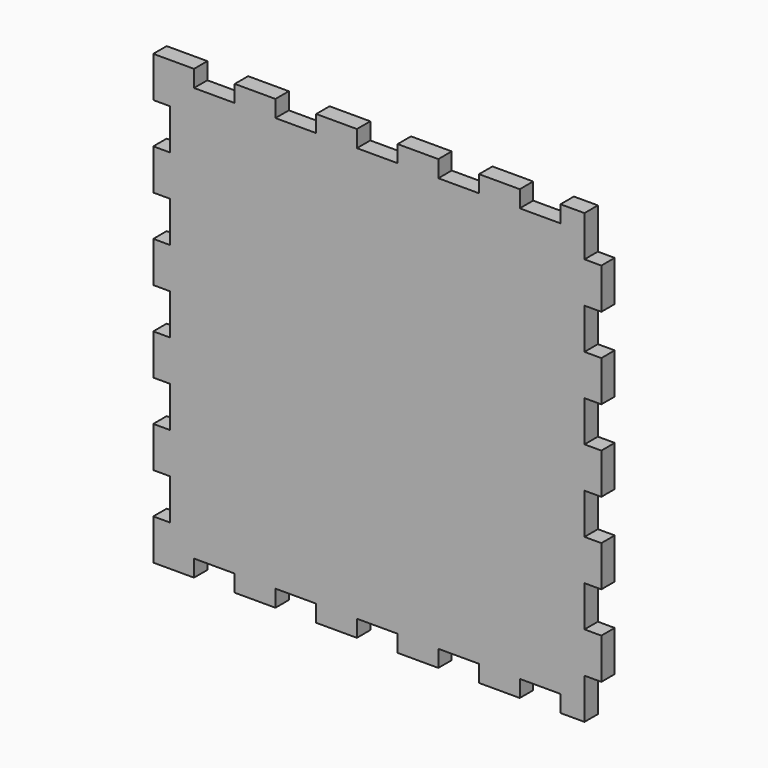
from build123d import *

# Parameters (mm, degrees)
F1_DEPTH = 3.81


with BuildPart() as f1:
    # F0 (on Front) → F1 (new body)
    with BuildSketch(Plane.XZ):
        Polygon((-46.355, 61.0616), (-55.626, 61.0616), (-55.626, 51.7906), (-51.7906, 51.7906), (-51.7906, 42.5196), (-55.626, 42.5196), (-55.626, 33.2486), (-51.7906, 33.2486), (-51.7906, 23.9776), (-55.626, 23.9776), (-55.626, 14.7066), (-51.7906, 14.7066), (-51.7906, 5.4356), (-55.626, 5.4356), (-55.626, -3.8354), (-51.7906, -3.8354), (-51.7906, -13.1064), (-55.626, -13.1064), (-55.626, -22.3774), (-51.7906, -22.3774), (-51.7906, -31.6484), (-55.626, -31.6484), (-55.626, -40.9194), (-46.355, -40.9194), (-46.355, -37.084), (-37.084, -37.084), (-37.084, -40.9194), (-27.813, -40.9194), (-27.813, -37.084), (-18.542, -37.084), (-18.542, -40.9194), (-9.271, -40.9194), (-9.271, -37.084), (0, -37.084), (0, -40.9194), (9.271, -40.9194), (9.271, -37.084), (18.542, -37.084), (18.542, -40.9194), (27.813, -40.9194), (27.813, -37.084), (37.084, -37.084), (37.084, -40.9194), (42.545, -40.9194), (42.545, -31.6484), (46.3804, -31.6484), (46.3804, -22.3774), (42.545, -22.3774), (42.545, -13.1064), (46.3804, -13.1064), (46.3804, -3.8354), (42.545, -3.8354), (42.545, 5.4356), (46.3804, 5.4356), (46.3804, 14.7066), (42.545, 14.7066), (42.545, 23.9776), (46.3804, 23.9776), (46.3804, 33.2486), (42.545, 33.2486), (42.545, 42.5196), (46.3804, 42.5196), (46.3804, 51.7906), (42.545, 51.7906), (42.545, 61.0616), (37.084, 61.0616), (37.084, 57.2262), (27.813, 57.2262), (27.813, 61.0616), (18.542, 61.0616), (18.542, 57.2262), (9.271, 57.2262), (9.271, 61.0616), (0, 61.0616), (0, 57.2262), (-9.271, 57.2262), (-9.271, 61.0616), (-18.542, 61.0616), (-18.542, 57.2262), (-27.813, 57.2262), (-27.813, 61.0616), (-37.084, 61.0616), (-37.084, 57.2262), (-46.355, 57.2262), align=None)
    extrude(amount=F1_DEPTH)


solid = f1.part
